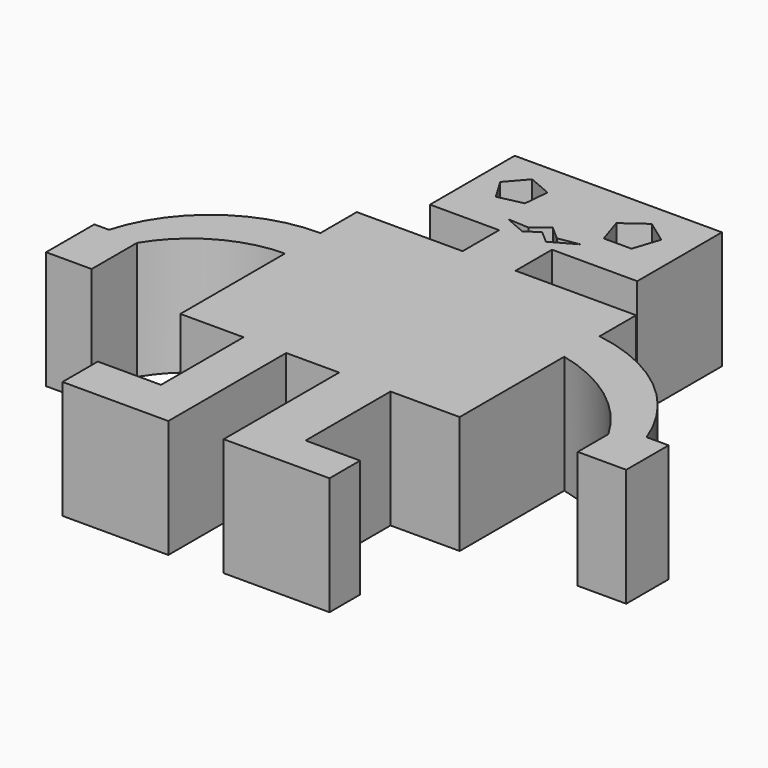
from build123d import *

# Parameters (mm, degrees)
F0_W     = 8.5470639169
F0_H     = 7.359970361
F0_W_2   = 6.8939565681
F0_H_2   = 16.6686940938
F0_W_3   = 8.2981851883
F0_H_3   = 17.1399470419
F1_DEPTH = 19.05
F3_DEPTH = 5.08


with BuildPart() as f1:
    # F0 (on Top) → F1 (new body)
    with BuildSketch(Plane.XY):
        Polygon((18.2812158018, 31.8140648305), (-15.1947773993, 31.8140648305), (-15.1947773993, 14.719940722), (-4.0361131541, 14.719940722), (4.5109507628, 14.719940722), (18.2812158018, 14.719940722), align=None)
        with Locations((0.2374188043, 11.0399555415)):
            Rectangle(F0_W, F0_H)
        Polygon((4.5109507628, 7.359970361), (-4.0361131541, 7.359970361), (-21.1302377284, 7.359970361), (-21.1302377284, 0), (-21.1302377284, -7.1295537055), (-21.1302377284, -28.2527897507), (-10.9300697222, -28.2527897507), (-4.0361131541, -28.2527897507), (4.5109507628, -28.2527897507), (12.8091359511, -28.2527897507), (23.9792577922, -28.2527897507), (23.9792577922, -7.1295537055), (23.9792577922, 0), (23.9792577922, 7.359970361), align=None)
        with BuildLine():
            Line((-21.1302377284, -7.1295537055), (-21.1302377284, 0))
            ThreePointArc((-21.1302377284, 0), (-34.5346698302, -4.3255321606), (-42.5056666136, -15.9381218255))
            Line((-42.5056666136, -15.9381218255), (-37.5218838453, -15.9381218255))
            Line((-37.5218838453, -15.9381218255), (-37.5218838453, -16.5297995395))
            ThreePointArc((-37.5218838453, -16.5297995395), (-30.5490392323, -9.6971121939), (-21.1302377284, -7.1295537055))
        make_face()
        with BuildLine():
            ThreePointArc((45.8187423646, -17.8184229881), (37.322344202, -5.9389942849), (23.9792577922, 0))
            Line((23.9792577922, 0), (23.9792577922, -7.1295537055))
            ThreePointArc((23.9792577922, -7.1295537055), (34.10483438, -11.8572882849), (41.5443964303, -20.1958548278))
            Line((41.5443964303, -20.1958548278), (41.5443964303, -17.8184229881))
            Line((41.5443964303, -17.8184229881), (45.8187423646, -17.8184229881))
        make_face()
        Polygon((-37.5218838453, -15.9381218255), (-42.5056666136, -15.9381218255), (-44.8798798025, -15.9381218255), (-44.8798798025, -25.6802868098), (-37.5218838453, -25.6802868098), (-37.5218838453, -16.5297995395), align=None)
        Polygon((49.38005656, -17.8184229881), (45.8187423646, -17.8184229881), (41.5443964303, -17.8184229881), (41.5443964303, -20.1958548278), (41.5443964303, -26.3747274876), (49.38005656, -26.3747274876), align=None)
        with Locations((-7.4830914382, -36.5871367976)):
            Rectangle(F0_W_2, F0_H_2)
        with Locations((8.6600433569, -36.8227632716)):
            Rectangle(F0_W_3, F0_H_3)
        Polygon((-4.0361131541, -44.9214838445), (-10.9300697222, -44.9214838445), (-21.1302377284, -44.9214838445), (-21.1302377284, -52.0546771586), (-4.0361131541, -52.0546771586), align=None)
        Polygon((21.605075337, -45.3927367926), (12.8091359511, -45.3927367926), (4.5109507628, -45.3927367926), (4.5109507628, -51.5690855682), (21.605075337, -51.5690855682), align=None)
    extrude(amount=F1_DEPTH)

    # F2 (on face) → F3 (cut)
    with BuildSketch(Plane.XY.offset(19.05)):
        Polygon((7.695332592, 21.1885124445), (12.180190111, 21.1885124445), (13.5660873017, 25.4538654126), (9.9377613515, 28.0899985209), (6.3094354012, 25.4538654126), align=None)
        Polygon((-10.049773275, 21.5695253752), (-6.0549434062, 22.4801860498), (-5.6865628557, 26.5609046526), (-9.4537210236, 28.1722667731), (-12.1503333628, 25.0874247289), align=None)
        Polygon((-1.5417836839, 17.5868663937), (-5.0355587155, 17.7865102887), (-1.5417836839, 16.289178282), (0.5544810556, 17.6866892725), (2.5482052742, 15.9438767551), (6.3940766267, 18.0859770626), (3.0500346329, 17.5369549543), (0.8264136545, 19.4807315503), align=None)
    extrude(amount=-F3_DEPTH, mode=Mode.SUBTRACT)


solid = f1.part
